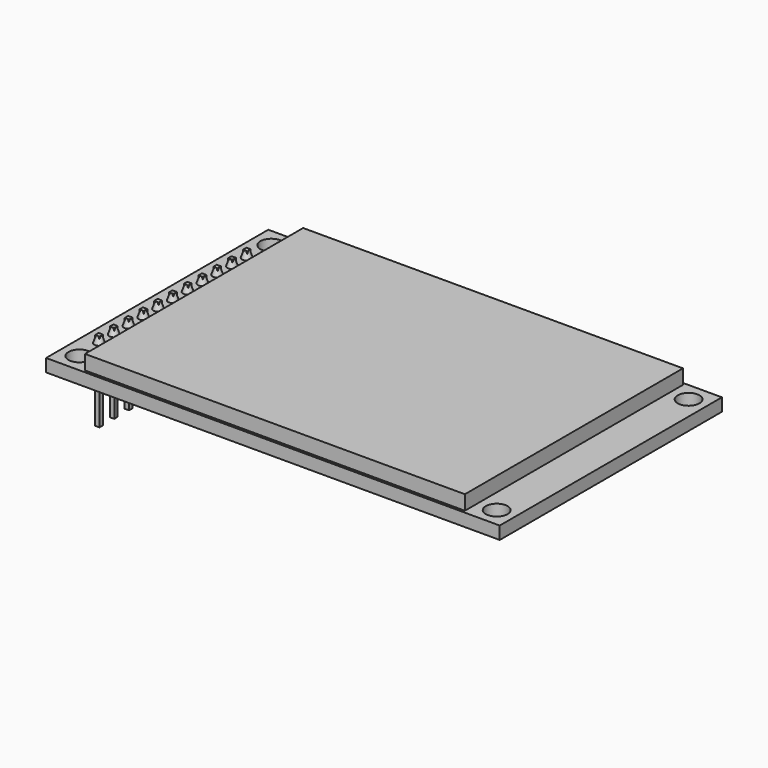
from build123d import *

# Parameters (mm, degrees)
SKETCH_W            = 62.4
SKETCH_H            = 38.2
SKETCH_R            = 1.5
PAD_DEPTH           = 1.75
SKETCH001_W         = 52.25
SKETCH001_H         = 37.5
PAD001_DEPTH        = 2
SKETCH002_W         = 0.6
SKETCH002_H         = 0.6
PAD002_DEPTH        = 1
PAD002_DEPTH_BACK   = 10
PAD003_DEPTH        = 2
LINEARPATTERN_COUNT = 11
LINEARPATTERN_PITCH = 2.54


with BuildPart() as part:
    # Sketch → Pad (new body)
    with BuildSketch(Plane.XY):
        Rectangle(SKETCH_W, SKETCH_H)
        with Locations((-28.7, 16.5)):
            Circle(SKETCH_R, mode=Mode.SUBTRACT)
        with Locations((-28.7, -16.5)):
            Circle(SKETCH_R, mode=Mode.SUBTRACT)
        with Locations((28.7, -16.5)):
            Circle(SKETCH_R, mode=Mode.SUBTRACT)
        with Locations((28.7, 16.5)):
            Circle(SKETCH_R, mode=Mode.SUBTRACT)
    extrude(amount=PAD_DEPTH)

    # Sketch001 (on Face10 of Pad) → Pad001 (join)
    with BuildSketch(Plane.XY.offset(1.75)):
        Rectangle(SKETCH001_W, SKETCH001_H)
    extrude(amount=PAD001_DEPTH)

    # Sketch002 (on Face5 of Pad001) → Pad002 (join, two sides)
    with BuildSketch(Plane.XY.offset(1.75)) as pad002_sk:
        with Locations((-28.93, -12.83)):
            Rectangle(SKETCH002_W, SKETCH002_H)
    pad002 = extrude(amount=PAD002_DEPTH) + extrude(pad002_sk.sketch, amount=-PAD002_DEPTH_BACK)

    # Sketch004 (on DatumPlane) → Revolution (revolve)
    with BuildSketch(Plane.XZ.offset(12.83)):
        Polygon((-28.63, 2.75), (-28.28, 1.75), (-28.63, 1.75), align=None)
    revolution = revolve(axis=Axis((-28.93, -12.83, 2.75), (0, 0, 1)))

    # Sketch005 (on Face23 of Revolution) → Pad003 (join)
    with BuildSketch(Plane(origin=(0, 0, 0), x_dir=(1, 0, 0), z_dir=(0, 0, -1))):
        Polygon((-30.2, 13.85), (-30.2, 11.81), (-29.95, 11.56), (-27.91, 11.56), (-27.66, 11.81), (-27.66, 13.85), (-27.91, 14.1), (-29.95, 14.1), align=None)
    pad003 = extrude(amount=PAD003_DEPTH)

    # LinearPattern: Pad003, Revolution, Pad002 ×11
    with Locations(*[(0, i * LINEARPATTERN_PITCH, 0) for i in range(1, LINEARPATTERN_COUNT)]):
        add(pad003)
        add(revolution)
        add(pad002)


solid = part.part
